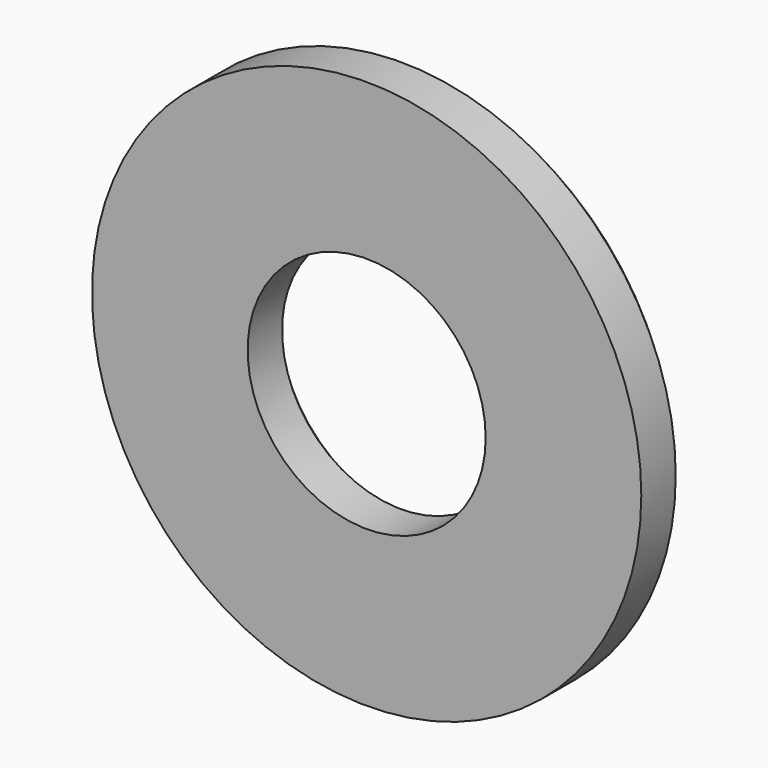
from build123d import *

# Parameters (mm, degrees)
F0_R     = 30
F0_R_2   = 13
F1_DEPTH = 6.2
F2_SIZE  = 1.5


with BuildPart() as f1:
    # F0 (on Front) → F1 (new body)
    with BuildSketch(Plane.XZ):
        Circle(F0_R)
        Circle(F0_R_2, mode=Mode.SUBTRACT)
    extrude(amount=F1_DEPTH)

    # F2
    f2_edges = [f1.edges().sort_by_distance(p)[0] for p in [
        (-13, 0, 0),
        (-30, 0, 0),
    ]]
    chamfer(f2_edges, length=F2_SIZE)


solid = f1.part
